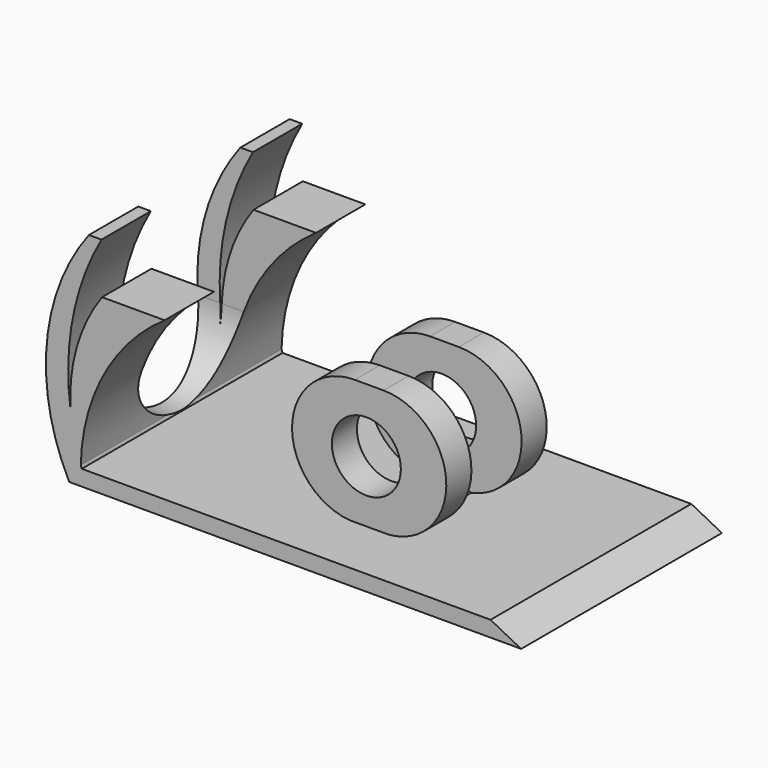
from build123d import *

# Parameters (mm, degrees)
PAD008_DEPTH = 30
SKETCH003_W  = 24.676034
SKETCH003_H  = 10
PAD002_DEPTH = 25
PAD001_DEPTH = 20
SKETCH002_R  = 5.5
POCKET_DEPTH = 24
PAD007_DEPTH = 40
PAD_DEPTH    = 40


with BuildPart() as pad008:
    # Sketch009 → Pad008 (new body)
    with BuildSketch(Plane.YZ.offset(-17)):
        with BuildLine():
            ThreePointArc((10.172884, 61.128702), (0, 71.301585), (-10.172884, 61.128702))
            Line((-10.172884, 61.128702), (-10.172884, 11.128702))
            ThreePointArc((-10.172884, 11.128702), (0, 0.955818), (10.172884, 11.128702))
            Line((10.172884, 61.128702), (10.172884, 11.128702))
        make_face()
    extrude(amount=PAD008_DEPTH)


with BuildPart() as pad002:
    # Sketch003 → Pad002 (new body)
    with BuildSketch(Plane(origin=(10, 0, 1), x_dir=(1, 0, 0), z_dir=(0, 0, 1))):
        with Locations((25.629245, 0)):
            Rectangle(SKETCH003_W, SKETCH003_H)
    extrude(amount=PAD002_DEPTH)


with BuildPart() as cut:
    # Sketch001 → Pad001 (new body)
    with BuildSketch(Plane(origin=(10, 10, 0), x_dir=(1, 0, 0), z_dir=(0, -1, 0))):
        with BuildLine():
            ThreePointArc((23.375231, 20.790424), (13.375231, 10.790424), (23.375231, 0.790424))
            Line((23.375231, 0.790424), (27.963482, 0.790424))
            ThreePointArc((27.963482, 0.790424), (37.963482, 10.790424), (27.963482, 20.790424))
            Line((23.375231, 20.790424), (27.963482, 20.790424))
        make_face()
    extrude(amount=PAD001_DEPTH)

    # Sketch002 → Pocket (cut)
    with BuildSketch(Plane(origin=(10, -10, 0), x_dir=(1, 0, 0), z_dir=(0, -1, 0))):
        with Locations((25.214981, 10.647934)):
            Circle(SKETCH002_R)
    extrude(amount=-POCKET_DEPTH, mode=Mode.SUBTRACT)

    # Cut: cut Pad002
    add(pad002.part, mode=Mode.SUBTRACT)


with BuildPart() as pad007:
    # Sketch008 → Pad007 (new body)
    with BuildSketch(Plane.XZ.offset(-20)):
        with BuildLine():
            ThreePointArc((11.056906, 25.953392), (1.290425, 15.054425), (-2.307496, 0.868989))
            ThreePointArc((1.093916, 25.953392), (-3.737473, 13.835707), (-2.307496, 0.868989))
            Line((1.093916, 25.953392), (11.056906, 25.953392))
        make_face()
    extrude(amount=PAD007_DEPTH)


with BuildPart() as cut001:
    # Sketch → Pad (new body)
    with BuildSketch(Plane.XZ.offset(-20)):
        with BuildLine():
            Line((-4.143037, -1.678632), (67.891418, -1.678632))
            Line((63.009144, 0.821368), (67.891418, -1.678632))
            Line((-2.143037, 0.821368), (63.009144, 0.821368))
            ThreePointArc((1, 34), (-4.119497, 17.746787), (-2.143037, 0.821368))
            Line((-1, 34), (1, 34))
            ThreePointArc((-1, 34), (-7.73146, 16.615239), (-4.143037, -1.678632))
        make_face()
    extrude(amount=PAD_DEPTH)

    # Fusion001: union Cut, Pad007
    add(cut.part)
    add(pad007.part)

    # Cut001: cut Pad008
    add(pad008.part, mode=Mode.SUBTRACT)


solid = cut001.part
